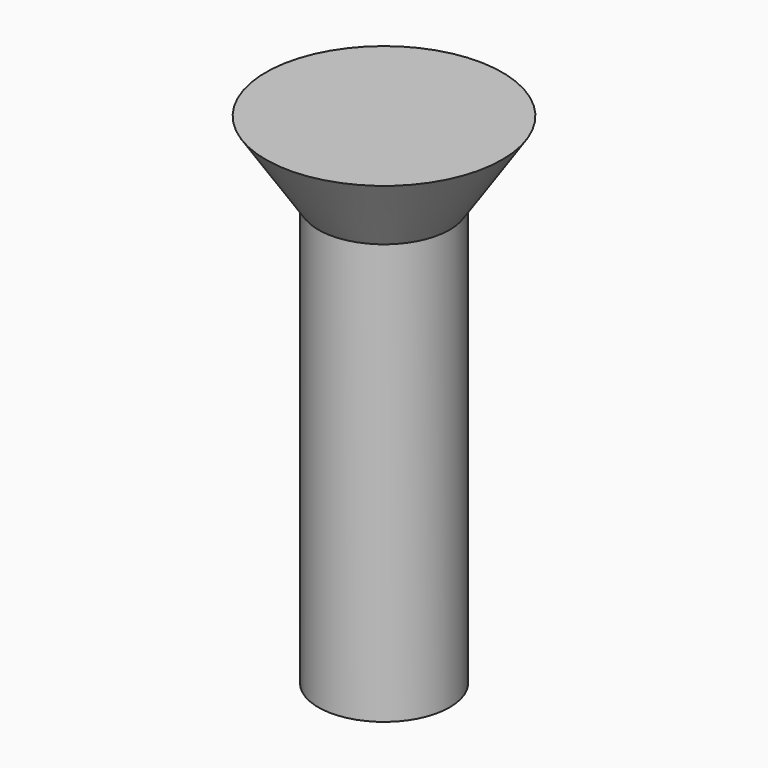
from build123d import *

# Parameters (mm, degrees)
CYLINDER011_R                   = 2.5
CYLINDER011_DEPTH               = 16
FUSION001018017_PLACEMENT_ANGLE = 180
CLONE021_PLACEMENT_ANGLE        = 180


with BuildPart() as cone003:
    # Cone003 → Cone003 (revolve)
    with BuildSketch(Plane(origin=(0, 0, -3), x_dir=(1, 0, 0), z_dir=(0, -1, 0))):
        Polygon((0, 0), (4.5, 0), (2.5, 3), (0, 3), align=None)
    revolve(axis=Axis((0, 0, -3), (0, 0, 1)))


with BuildPart() as obj1:
    # Cylinder011 → Cylinder011 (new body)
    with BuildSketch(Plane.XY):
        Circle(CYLINDER011_R)
    extrude(amount=CYLINDER011_DEPTH)

    # Fusion001018017: union Cone003
    add(cone003.part)


with BuildPart() as obj1_1:
    # Fusion001018017 placement: moved
    add(obj1.part.moved(Location((45, 15, 21))).rotate(Axis((45, 15, 21), (0, 1, 0)), FUSION001018017_PLACEMENT_ANGLE))


with BuildPart() as obj1_2:
    # Clone021 placement: moved
    add(obj1_1.part.moved(Location((90, 190, 0))).rotate(Axis((90, 190, 0), (0, 0, 1)), CLONE021_PLACEMENT_ANGLE))


with BuildPart() as obj1_3:
    # Clone030 placement: moved
    add(obj1_2.part.moved(Location((270, 0, 0))))


solid = obj1_3.part
